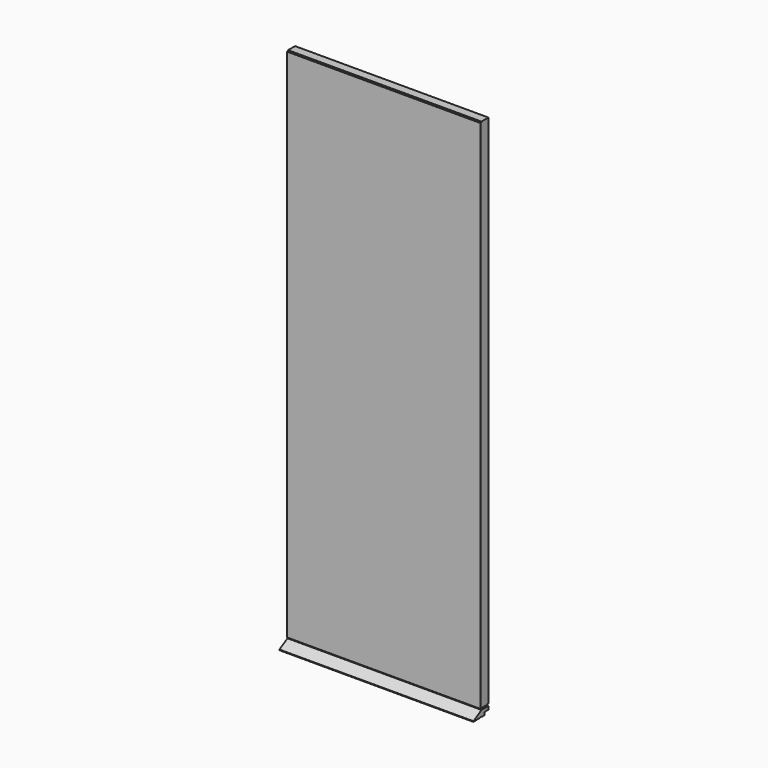
from build123d import *

# Parameters (mm, degrees)
F0_W      = 34.544
F0_H      = 4.318
F0_H_2    = 2027.682
F2_DEPTH  = 381
F1_W      = 34.544
F1_H      = 2027.682
F1_H_2    = 4.318
F3_DEPTH  = 381
F6_DEPTH  = 382.27
F7_DEPTH  = 382.27
F8_W      = 11.43
F8_H      = 53.34
F10_DEPTH = 2065.529
F9_W      = 11.43
F9_H      = 53.34
F11_DEPTH = 2065.529


with BuildPart() as f2:
    # F0 (on Right) → F2 (new body, symmetric)
    with BuildSketch(Plane.YZ):
        with Locations((-0.762, 32.893)):
            Rectangle(F0_W, F0_H)
        with Locations((-0.762, 1048.893)):
            Rectangle(F0_W, F0_H_2)
    extrude(amount=F2_DEPTH, both=True)


with BuildPart() as f3:
    # F1 (on Right) → F3 (new body, symmetric)
    with BuildSketch(Plane.YZ):
        with Locations((4.826, 1051.687)):
            Rectangle(F1_W, F1_H)
        with Locations((4.826, 35.687)):
            Rectangle(F1_W, F1_H_2)
    extrude(amount=F3_DEPTH, both=True)


with BuildPart() as f6:
    # F4 (on Right) → F6 (new body, symmetric)
    with BuildSketch(Plane.YZ):
        Polygon((0, 0.79375), (0, 11.826875), (8.89, 11.826875), (8.89, 12.22375), (21.59, 12.22375), (21.59, 11.43), (30.48, 11.43), (30.48, 13.97), (10.6826592695, 25.4), (-13.745318539, 25.4), (-53.34, 2.54), (-53.34, 0), (-44.0266666667, 0), (-44.0266666667, 0.79375), (-31.3266666667, 0.79375), (-31.3266666667, 0.396875), (-22.0133333333, 0.396875), (-22.0133333333, 1.5875), (-9.3133333333, 1.5875), (-9.3133333333, 0.79375), align=None)
    extrude(amount=F6_DEPTH, both=True)

    # F8 (on Top) → F10 (cut, through all)
    with BuildSketch(Plane.XY):
        with Locations((-376.555, 41.91)):
            Rectangle(F8_W, F8_H)
        with Locations((376.555, 41.91)):
            Rectangle(F8_W, F8_H)
    extrude(amount=F10_DEPTH, mode=Mode.SUBTRACT)


with BuildPart() as f7:
    # F5 (on Right) → F7 (new body, symmetric)
    with BuildSketch(Plane.YZ):
        Polygon((-48.26, 2.54), (-48.26, 0), (-40.64, 0), (-40.64, 0.79375), (-27.94, 0.79375), (-27.94, 0.396875), (-20.32, 0.396875), (-20.32, 1.5875), (-7.62, 1.5875), (-7.62, 0.79375), (0, 0.79375), (0, 12.2025833333), (11.43, 12.2025833333), (11.43, 12.4671666667), (24.13, 12.4671666667), (24.13, 11.938), (35.56, 11.938), (35.56, 14.478), (16.6425410797, 25.4), (-8.665318539, 25.4), align=None)
    extrude(amount=F7_DEPTH, both=True)

    # F9 (on Top) → F11 (cut, through all)
    with BuildSketch(Plane.XY):
        with Locations((-376.555, 47.498)):
            Rectangle(F9_W, F9_H)
        with Locations((376.555, 47.498)):
            Rectangle(F9_W, F9_H)
    extrude(amount=F11_DEPTH, mode=Mode.SUBTRACT)


solid = Compound([f2.part, f3.part, f6.part, f7.part])
